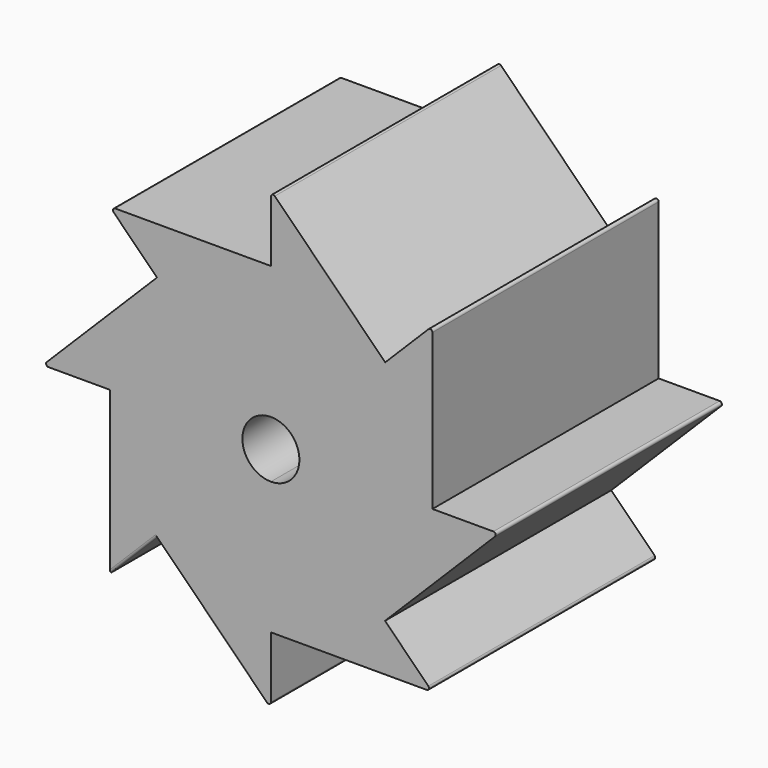
from build123d import *

# Parameters (mm, degrees)
F1_DEPTH = 24.8
F2_R     = 0.2


with BuildPart() as f1:
    # F0 (on Front) → F1 (new body)
    with BuildSketch(Plane.XZ):
        Polygon((10.026696, 9.973304), (0, 20), (0, 14.152517), (-14.131747, 14.152517), (-9.989615, 10.010385), (-20, 0), (-14.115414, 0), (-14.115414, -14.168807), (-9.973304, -10.026696), (0, -20), (0, -14.131747), (14.152517, -14.131747), (10.010385, -9.989615), (20, 0), (14.168807, 0), (14.168807, 14.115414), align=None)
        with BuildLine():
            ThreePointArc((0, -2.5), (-1.767767, 1.767767), (2.5, 0))
            ThreePointArc((2.5, 0), (1.767767, -1.767767), (0, -2.5))
        make_face(mode=Mode.SUBTRACT)
    extrude(amount=F1_DEPTH)

    # F2
    f2_edges = [f1.edges().sort_by_distance(p)[0] for p in [
        (0, -12.4, 20),
        (14.168807, -12.4, 14.115414),
        (20, -12.4, 0),
        (14.152517, -12.4, -14.131747),
        (0, -12.4, -20),
        (-12.044359, -24.8, -12.097752),
        (-20, -12.4, 0),
        (-14.131747, -12.4, 14.152517),
    ]]
    fillet(f2_edges, radius=F2_R)


solid = f1.part
